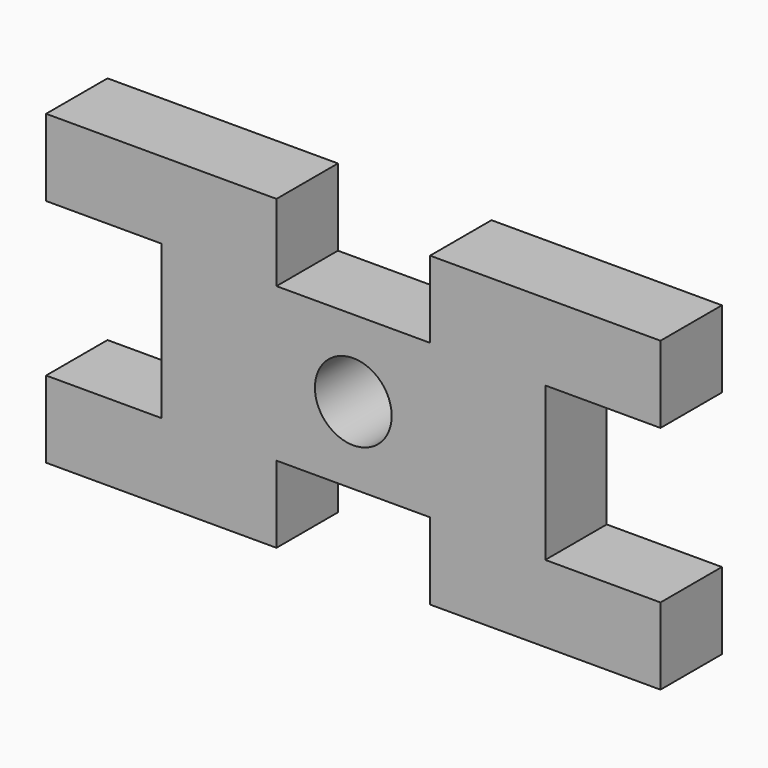
from build123d import *

# Parameters (mm, degrees)
F0_R     = 5
F1_DEPTH = 10


with BuildPart() as f1:
    # F0 (on Front) → F1 (new body)
    with BuildSketch(Plane.XZ):
        Polygon((-10, -10), (0, -10), (10, -10), (10, -20), (40, -20), (40, -10), (25, -10), (25, 10), (40, 10), (40, 20), (10, 20), (10, 10), (0, 10), (-10, 10), (-10, 20), (-40, 20), (-40, 10), (-25, 10), (-25, -10), (-40, -10), (-40, -20), (-10, -20), align=None)
        Circle(F0_R, mode=Mode.SUBTRACT)
    extrude(amount=F1_DEPTH)


solid = f1.part
